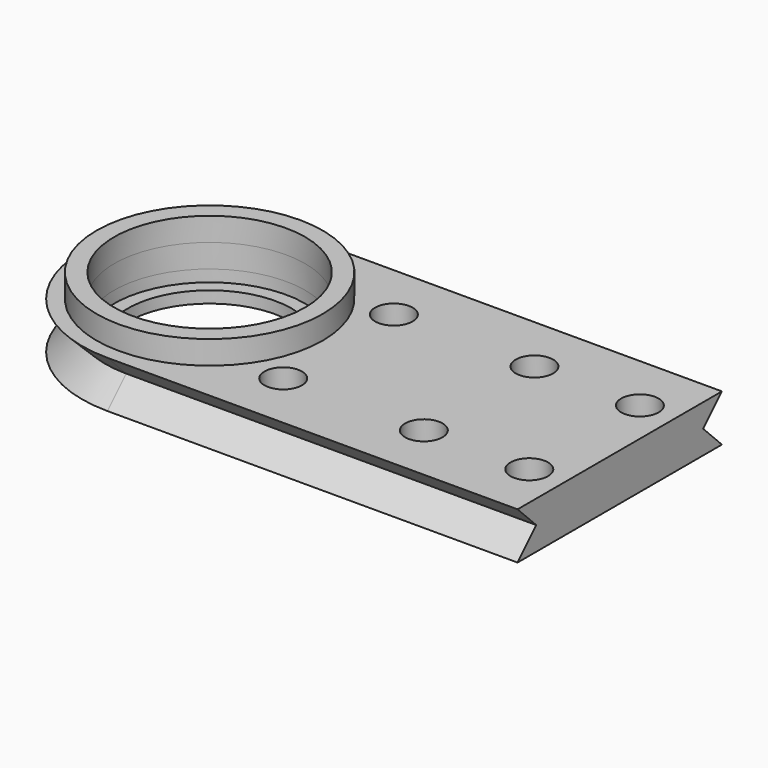
from build123d import *

# Parameters (mm, degrees)
PAD_DEPTH            = 35
SKETCH004_R          = 1.6
POCKET_DEPTH         = 2.001
POCKET_DEPTH_BACK    = 2.001
SKETCH006_R          = 7
POCKET001_DEPTH      = 2.001
POCKET001_DEPTH_BACK = 2.001
SKETCH005_R          = 8.15
POCKET002_DEPTH      = 1
POCKET002_DEPTH_BACK = 100
SKETCH007_R          = 9.65
SKETCH007_R_2        = 8.15
PAD001_DEPTH         = 2


with BuildPart() as part:
    # Sketch → Pad (new body)
    with BuildSketch(Plane.YZ):
        Polygon((0, 2), (-10.9, 2), (-8.9, 0), (-10.9, -2), (0, -2), (10.9, -2), (8.9, 0), (10.9, 2), align=None)
    extrude(amount=PAD_DEPTH)

    # Sketch002 (on DatumPlane) → AdditiveLoft section 0
    with BuildSketch(Plane.XY.offset(2)):
        with BuildLine():
            ThreePointArc((0, 10.9), (-10.9, 0), (0, -10.9))
            Line((0, 10.9), (0, -10.9))
        make_face()
    # Sketch001 → AdditiveLoft section 1
    with BuildSketch(Plane.XY):
        with BuildLine():
            ThreePointArc((0, 8.9), (-8.9, 0), (0, -8.9))
            Line((0, 8.9), (0, -8.9))
        make_face()
    # Sketch003 (on DatumPlane) → AdditiveLoft section 2
    with BuildSketch(Plane.XY.offset(-2)):
        with BuildLine():
            ThreePointArc((0, 10.9), (-10.9, 0), (0, -10.9))
            Line((0, 10.9), (0, -10.9))
        make_face()
    loft(ruled=True)

    # Sketch004 → Pocket (cut, two sides)
    with BuildSketch(Plane.XY) as pocket_sk:
        with Locations((32, 5.9)):
            Circle(SKETCH004_R)
        with Locations((32, -5.9)):
            Circle(SKETCH004_R)
        with Locations((23, 5.9)):
            Circle(SKETCH004_R)
        with Locations((11, 5.9)):
            Circle(SKETCH004_R)
        with Locations((23, -5.9)):
            Circle(SKETCH004_R)
        with Locations((11, -5.9)):
            Circle(SKETCH004_R)
    extrude(amount=-POCKET_DEPTH, mode=Mode.SUBTRACT)
    extrude(pocket_sk.sketch, amount=POCKET_DEPTH_BACK, mode=Mode.SUBTRACT)

    # Sketch006 → Pocket001 (cut, two sides)
    with BuildSketch(Plane.XY) as pocket001_sk:
        Circle(SKETCH006_R)
    extrude(amount=-POCKET001_DEPTH, mode=Mode.SUBTRACT)
    extrude(pocket001_sk.sketch, amount=POCKET001_DEPTH_BACK, mode=Mode.SUBTRACT)

    # Sketch005 → Pocket002 (cut, two sides)
    with BuildSketch(Plane.XY) as pocket002_sk:
        Circle(SKETCH005_R)
    extrude(amount=-POCKET002_DEPTH, mode=Mode.SUBTRACT)
    extrude(pocket002_sk.sketch, amount=POCKET002_DEPTH_BACK, mode=Mode.SUBTRACT)

    # Sketch007 (on DatumPlane) → Pad001 (join)
    with BuildSketch(Plane.XY.offset(2)):
        Circle(SKETCH007_R)
        Circle(SKETCH007_R_2, mode=Mode.SUBTRACT)
    extrude(amount=PAD001_DEPTH)


solid = part.part
